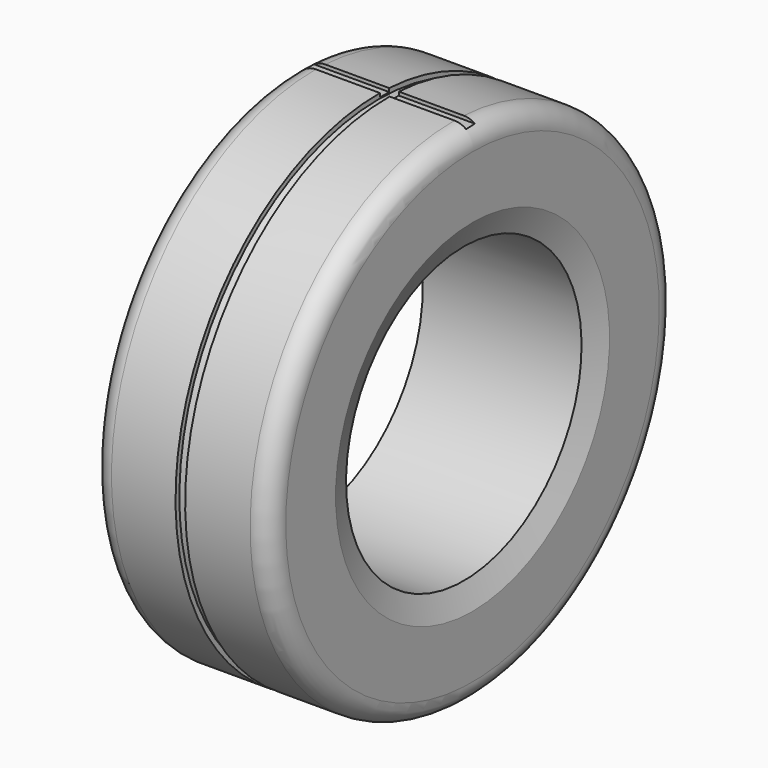
from build123d import *

# Parameters (mm, degrees)
F3_W     = 224.224709
F3_H     = 12
F4_DEPTH = 25


with BuildPart() as f1:
    # F0 (on Front) → F1 (revolve)
    with BuildSketch(Plane.XZ):
        with BuildLine():
            Line((-92.5, 178), (-82.5, 153))
            Line((-82.5, 153), (82.5, 153))
            Line((82.5, 153), (91.563749, 178))
            Line((91.563749, 178), (91.563749, 242.629194))
            ThreePointArc((91.563749, 242.629194), (86.229539, 257.648881), (71.610782, 264))
            Line((71.610782, 264), (4.063749, 264))
            Line((4.063749, 264), (4.063749, 259))
            Line((4.063749, 259), (-5.936251, 259))
            Line((-5.936251, 259), (-5.936251, 264))
            Line((-5.936251, 264), (-72.5, 264))
            ThreePointArc((-72.5, 264), (-86.642136, 258.142136), (-92.5, 244))
            Line((-92.5, 244), (-92.5, 178))
        make_face()
    revolve(axis=Axis((-3.502293, 0, 0), (1, 0, 0)))

    # F3 (on offset) → F4 (cut)
    with BuildSketch(Plane.XY.offset(260)):
        with Locations((0.87773, 7.571515)):
            Rectangle(F3_W, F3_H)
    extrude(amount=F4_DEPTH, mode=Mode.SUBTRACT)


with BuildPart() as f5_1:
    # F5: copy of F1
    add(f1.part)


solid = Compound([f1.part, f5_1.part])
